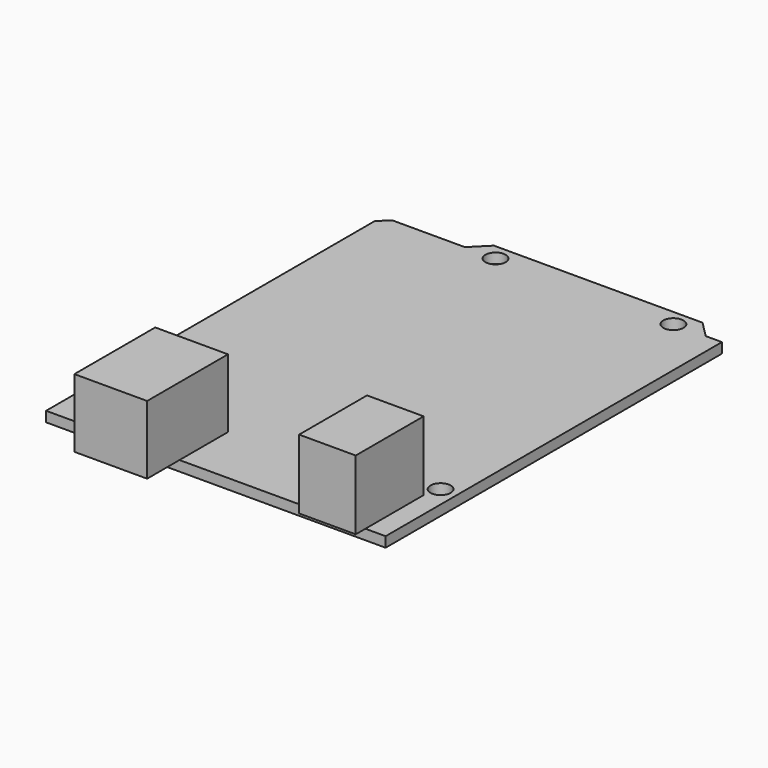
from build123d import *

# Parameters (mm, degrees)
F0_R     = 1.5875
F0_W     = 8.89
F0_H     = 11.43
F0_W_2   = 11.43
F0_H_2   = 9.525
F1_DEPTH = 1.6
F0_H_3   = 1.905
F2_DEPTH = 10.9
F0_H_4   = 6.35
F3_DEPTH = 10.75


with BuildPart() as f1:
    # F0 (on Top) → F1 (new body)
    with BuildSketch(Plane.XY):
        Polygon((23.495, 0), (26.67, 0), (26.67, 66.04), (24.13, 66.04), (21.59, 68.58), (-11.176, 68.58), (-13.716, 66.04), (-25.146, 66.04), (-26.67, 64.516), (-26.67, 0), (-17.145, 0), (-17.145, 9.525), (-5.715, 9.525), (-5.715, 0), (14.605, 0), (14.605, 11.43), (23.495, 11.43), align=None)
        with Locations((-24.13, 15.24)):
            Circle(F0_R, mode=Mode.SUBTRACT)
        with Locations((24.13, 13.97)):
            Circle(F0_R, mode=Mode.SUBTRACT)
        with Locations((-8.89, 66.04)):
            Circle(F0_R, mode=Mode.SUBTRACT)
        with Locations((19.05, 66.04)):
            Circle(F0_R, mode=Mode.SUBTRACT)
        with Locations((19.05, 5.715)):
            Rectangle(F0_W, F0_H)
        with Locations((-11.43, 4.7625)):
            Rectangle(F0_W_2, F0_H_2)
        Polygon((23.495, 0), (26.67, 0), (26.67, 66.04), (24.13, 66.04), (21.59, 68.58), (-11.176, 68.58), (-13.716, 66.04), (-25.146, 66.04), (-26.67, 64.516), (-26.67, 0), (-17.145, 0), (-17.145, 9.525), (-5.715, 9.525), (-5.715, 0), (14.605, 0), (14.605, 11.43), (23.495, 11.43), align=None)
        with Locations((-24.13, 15.24)):
            Circle(F0_R, mode=Mode.SUBTRACT)
        with Locations((24.13, 13.97)):
            Circle(F0_R, mode=Mode.SUBTRACT)
        with Locations((-8.89, 66.04)):
            Circle(F0_R, mode=Mode.SUBTRACT)
        with Locations((19.05, 66.04)):
            Circle(F0_R, mode=Mode.SUBTRACT)
        Polygon((23.495, 0), (26.67, 0), (26.67, 66.04), (24.13, 66.04), (21.59, 68.58), (-11.176, 68.58), (-13.716, 66.04), (-25.146, 66.04), (-26.67, 64.516), (-26.67, 0), (-17.145, 0), (-17.145, 9.525), (-5.715, 9.525), (-5.715, 0), (14.605, 0), (14.605, 11.43), (23.495, 11.43), align=None)
        with Locations((-24.13, 15.24)):
            Circle(F0_R, mode=Mode.SUBTRACT)
        with Locations((24.13, 13.97)):
            Circle(F0_R, mode=Mode.SUBTRACT)
        with Locations((-8.89, 66.04)):
            Circle(F0_R, mode=Mode.SUBTRACT)
        with Locations((19.05, 66.04)):
            Circle(F0_R, mode=Mode.SUBTRACT)
        Polygon((23.495, 0), (26.67, 0), (26.67, 66.04), (24.13, 66.04), (21.59, 68.58), (-11.176, 68.58), (-13.716, 66.04), (-25.146, 66.04), (-26.67, 64.516), (-26.67, 0), (-17.145, 0), (-17.145, 9.525), (-5.715, 9.525), (-5.715, 0), (14.605, 0), (14.605, 11.43), (23.495, 11.43), align=None)
        with Locations((-24.13, 15.24)):
            Circle(F0_R, mode=Mode.SUBTRACT)
        with Locations((24.13, 13.97)):
            Circle(F0_R, mode=Mode.SUBTRACT)
        with Locations((-8.89, 66.04)):
            Circle(F0_R, mode=Mode.SUBTRACT)
        with Locations((19.05, 66.04)):
            Circle(F0_R, mode=Mode.SUBTRACT)
        Polygon((23.495, 0), (26.67, 0), (26.67, 66.04), (24.13, 66.04), (21.59, 68.58), (-11.176, 68.58), (-13.716, 66.04), (-25.146, 66.04), (-26.67, 64.516), (-26.67, 0), (-17.145, 0), (-17.145, 9.525), (-5.715, 9.525), (-5.715, 0), (14.605, 0), (14.605, 11.43), (23.495, 11.43), align=None)
        with Locations((-24.13, 15.24)):
            Circle(F0_R, mode=Mode.SUBTRACT)
        with Locations((24.13, 13.97)):
            Circle(F0_R, mode=Mode.SUBTRACT)
        with Locations((-8.89, 66.04)):
            Circle(F0_R, mode=Mode.SUBTRACT)
        with Locations((19.05, 66.04)):
            Circle(F0_R, mode=Mode.SUBTRACT)
    extrude(amount=-F1_DEPTH)

    # F0 (on Top) → F2 (join)
    with BuildSketch(Plane.XY):
        with Locations((19.05, 5.715)):
            Rectangle(F0_W, F0_H)
        with Locations((19.05, -0.9525)):
            Rectangle(F0_W, F0_H_3)
    extrude(amount=F2_DEPTH)

    # F0 (on Top) → F3 (join)
    with BuildSketch(Plane.XY):
        with Locations((-11.43, 4.7625)):
            Rectangle(F0_W_2, F0_H_2)
        with Locations((-11.43, -3.175)):
            Rectangle(F0_W_2, F0_H_4)
    extrude(amount=F3_DEPTH)


solid = f1.part
